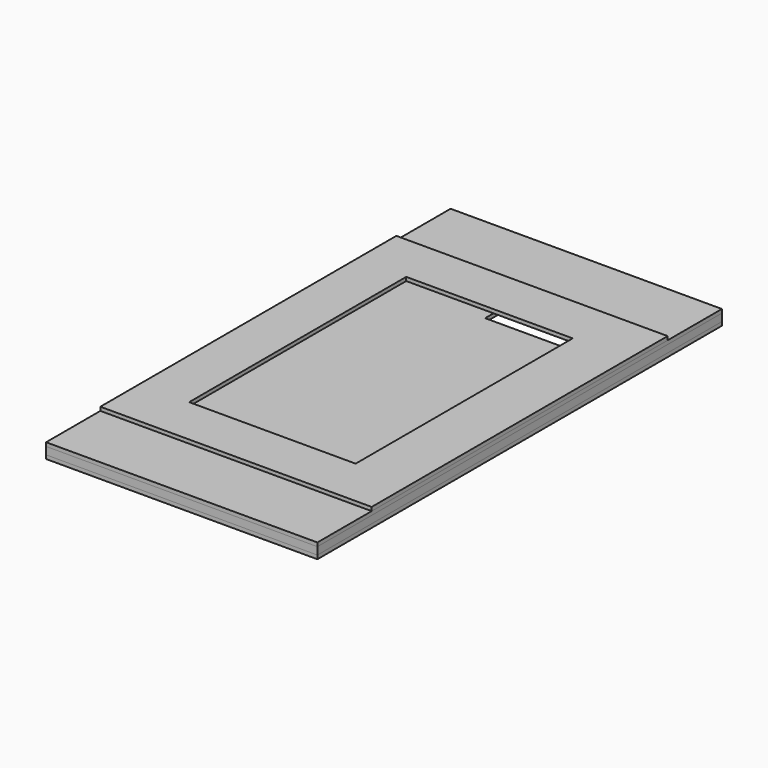
from build123d import *

# Parameters (mm, degrees)
F0_W      = 220
F0_H      = 410
F1_DEPTH  = 3
F2_W      = 220
F2_H      = 410
F2_W_2    = 172
F2_H_2    = 250
F3_DEPTH  = 6
F4_W      = 220
F4_H      = 300
F4_W_2    = 135
F4_H_2    = 220
F5_DEPTH  = 3
F7_DEPTH  = 25
F8_W      = 220
F8_H      = 410
F8_W_2    = 172
F8_H_2    = 250
F9_DEPTH  = 3
F11_W     = 40
F11_H     = 30
F12_DEPTH = 25
F13_W     = 56
F13_H     = 5
F14_DEPTH = 25


with BuildPart() as f1:
    # F0 (on Top) → F1 (new body)
    with BuildSketch(Plane.XY):
        Rectangle(F0_W, F0_H)
    extrude(amount=F1_DEPTH)

    # F6 (on face) → F7 (cut)
    with BuildSketch(Plane.XY.offset(3)):
        Polygon((5, 150), (-10, 150), (-10, 115), (80, 115), (80, 150), (25, 150), (25, 165), (5, 165), align=None)
    extrude(amount=-F7_DEPTH, mode=Mode.SUBTRACT)


with BuildPart() as f3:
    # F2 (on face) → F3 (new body)
    with BuildSketch(Plane.XY.offset(3)):
        Rectangle(F2_W, F2_H)
        Rectangle(F2_W_2, F2_H_2, mode=Mode.SUBTRACT)
    extrude(amount=F3_DEPTH)

    # F11 (on face) → F12 (cut)
    with BuildSketch(Plane.XY.offset(9)):
        with Locations((-10, 140)):
            Rectangle(F11_W, F11_H)
    extrude(amount=-F12_DEPTH, mode=Mode.SUBTRACT)

    # F13 (on face) → F14 (cut)
    with BuildSketch(Plane.XY.offset(9)):
        with Locations((-58, 127.5)):
            Rectangle(F13_W, F13_H)
    extrude(amount=-F14_DEPTH, mode=Mode.SUBTRACT)


with BuildPart() as f5:
    # F4 (on face) → F5 (new body)
    with BuildSketch(Plane.XY.offset(9)):
        Rectangle(F4_W, F4_H)
        with Locations((-2.5, 0)):
            Rectangle(F4_W_2, F4_H_2, mode=Mode.SUBTRACT)
    extrude(amount=F5_DEPTH)


with BuildPart() as f9:
    # F8 (on face) → F9 (new body)
    with BuildSketch(Plane.XY.offset(9)):
        Rectangle(F8_W, F8_H)
        Rectangle(F8_W_2, F8_H_2, mode=Mode.SUBTRACT)
    extrude(amount=F9_DEPTH)


with BuildPart() as f5_1:
    # F10: moved
    add(f5.part.moved(Location((0, 0, 3))))


solid = Compound([f1.part, f3.part, f9.part, f5_1.part])
